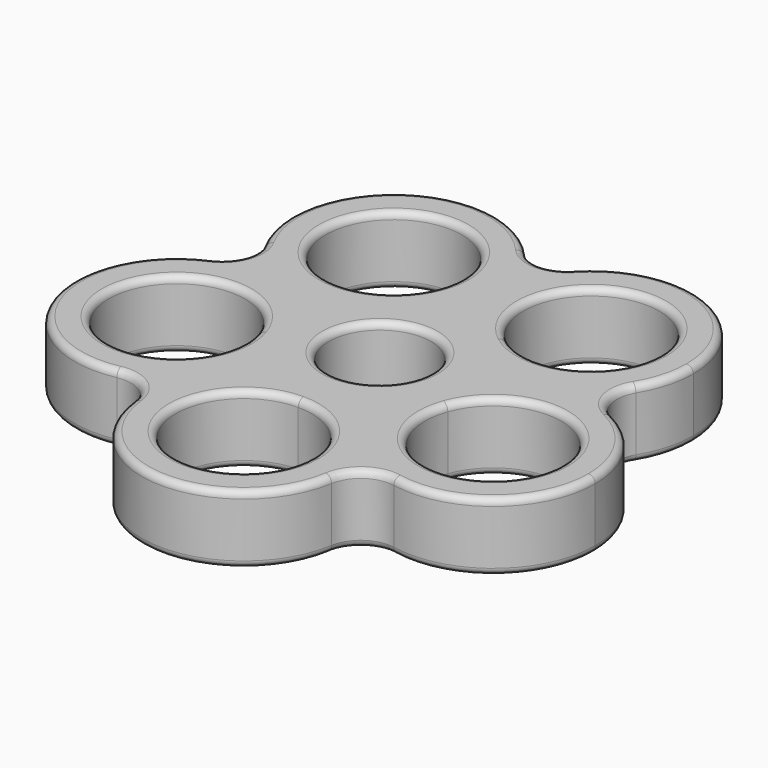
from build123d import *

# Parameters (mm, degrees)
F0_R     = 7.5
F1_DEPTH = 10
F2_R     = 5
F3_R     = 1


with BuildPart() as f1:
    # F0 (on Top) → F1 (new body)
    with BuildSketch(Plane.XY):
        with BuildLine():
            ThreePointArc((14.5820389752, 3.516267812), (14.8951432458, 1.7705105721), (15, 0))
            ThreePointArc((15, 0), (14.772116288, -2.6047227059), (14.0953892834, -5.1303022279))
            ThreePointArc((14.0953892834, -5.1303022279), (12.014317133, -8.9808787893), (8.9102765444, -12.0667713951))
            ThreePointArc((8.9102765444, -12.0667713951), (9.0551324249, -12.6208529894), (9.2210338453, -13.1690011062))
            ThreePointArc((9.2210338453, -13.1690011062), (12.2872806643, -16.3963534547), (14.2712816744, -20.3815024769))
            ThreePointArc((14.2712816744, -20.3815024769), (30.0757983487, -22.0285506909), (38.4923155196, -8.5505035831))
            ThreePointArc((38.4923155196, -8.5505035831), (33.4818604511, 2.6391788102), (21.7977832446, 6.3534744217))
            ThreePointArc((21.7977832446, 6.3534744217), (19.4164709357, 5.4330856915), (16.9135680003, 4.9298555024))
            ThreePointArc((16.9135680003, 4.9298555024), (15.7156180103, 4.2761474158), (14.5820389752, 3.516267812))
        make_face()
        with BuildLine():
            ThreePointArc((33.4923155196, -8.5505035831), (21.7558337839, -18.3985811205), (14.0953892834, -5.1303022279))
            ThreePointArc((14.0953892834, -5.1303022279), (25.2287972554, 1.2975739542), (33.4923155196, -8.5505035831))
        make_face(mode=Mode.SUBTRACT)
        with BuildLine():
            ThreePointArc((9.1314216423, 11.9002999454), (12.1779912249, 8.7576554925), (14.1876562524, 4.8693336365))
            ThreePointArc((14.1876562524, 4.8693336365), (15.5519901273, 4.8375292504), (16.9135680003, 4.9298555024))
            ThreePointArc((16.9135680003, 4.9298555024), (19.2948803092, 5.8502442326), (21.7977832446, 6.3534744217))
            ThreePointArc((21.7977832446, 6.3534744217), (27.9406946735, 11.8865450638), (30.2190357252, 19.8338335073))
            ThreePointArc((30.2190357252, 19.8338335073), (16.658483173, 34.7646067975), (0.4953035859, 22.6994419747))
            ThreePointArc((0.4953035859, 22.6994419747), (0.6192106424, 21.5921929027), (0.6605890912, 20.4788011072))
            ThreePointArc((0.6605890912, 20.4788011072), (0.5913623815, 19.0393536595), (0.3843212306, 17.6131926398))
            ThreePointArc((0.3843212306, 17.6131926398), (0.6475432042, 16.2741136154), (1.0313794728, 14.9644998708))
            ThreePointArc((1.0313794728, 14.9644998708), (5.3073498021, 14.029684176), (9.1314216423, 11.9002999454))
        make_face()
        with BuildLine():
            ThreePointArc((25.2190357252, 19.8338335073), (19.6419227445, 10.8651061497), (9.1314216423, 11.9002999454))
            ThreePointArc((9.1314216423, 11.9002999454), (10.7961487059, 28.8025608648), (25.2190357252, 19.8338335073))
        make_face(mode=Mode.SUBTRACT)
        with BuildLine():
            ThreePointArc((21.7977832446, 6.3534744217), (19.2948803092, 5.8502442326), (16.9135680003, 4.9298555024))
            ThreePointArc((16.9135680003, 4.9298555024), (19.4164709357, 5.4330856915), (21.7977832446, 6.3534744217))
        make_face()
        with BuildLine():
            ThreePointArc((9.2210338453, -13.1690011062), (8.7626847324, -12.8256270683), (8.2915619759, -12.5))
            ThreePointArc((8.2915619759, -12.5), (4.3301270098, -14.3614066191), (-1.91e-08, -15))
            ThreePointArc((-1.91e-08, -15), (-4.330127028, -14.3614066136), (-8.2915619759, -12.5))
            ThreePointArc((-8.2915619759, -12.5), (-9.3933220963, -13.3053217233), (-10.4173297888, -14.2074451555))
            ThreePointArc((-10.4173297888, -14.2074451555), (-11.7462547047, -16.3872897131), (-13.4255939799, -18.3101998321))
            ThreePointArc((-13.4255939799, -18.3101998321), (-3.4362836249, -39.6010943031), (15, -25))
            ThreePointArc((15, -25), (14.8167004612, -22.6621831889), (14.2712816744, -20.3815024769))
            ThreePointArc((14.2712816744, -20.3815024769), (11.2050348553, -17.1541501284), (9.2210338453, -13.1690011062))
        make_face()
        with BuildLine():
            ThreePointArc((10, -25), (-7.0710678051, -32.0710678186), (-1.91e-08, -15))
            ThreePointArc((-1.91e-08, -15), (7.0710678051, -17.9289321814), (10, -25))
        make_face(mode=Mode.SUBTRACT)
        with BuildLine():
            ThreePointArc((14.2712816744, -20.3815024769), (12.2872806643, -16.3963534547), (9.2210338453, -13.1690011062))
            ThreePointArc((9.2210338453, -13.1690011062), (11.2050348553, -17.1541501284), (14.2712816744, -20.3815024769))
        make_face()
        with BuildLine():
            ThreePointArc((-8.6036464699, 12.2872807171), (-4.6903319847, 14.2478344275), (-0.3776555115, 14.9952451235))
            ThreePointArc((-0.3776555115, 14.9952451235), (0.0629399793, 16.2868697031), (0.3843212306, 17.6131926398))
            ThreePointArc((0.3843212306, 17.6131926398), (0.222605319, 20.1610567828), (0.4953035859, 22.6994419747))
            ThreePointArc((0.4953035859, 22.6994419747), (-22.943057454, 32.7660817716), (-21.499901923, 7.2982332729))
            ThreePointArc((-21.499901923, 7.2982332729), (-19.0213317892, 6.6863069548), (-16.6824327544, 5.6629228467))
            ThreePointArc((-16.6824327544, 5.6629228467), (-15.3261780164, 5.5112932761), (-13.9617553973, 5.4835559837))
            ThreePointArc((-13.9617553973, 5.4835559837), (-11.7843967991, 9.2805168003), (-8.6036464699, 12.2872807171))
        make_face()
        with BuildLine():
            ThreePointArc((-4.3394109088, 20.4788011072), (-5.4693025558, 15.8613150157), (-8.6036464699, 12.2872807171))
            ThreePointArc((-8.6036464699, 12.2872807171), (-23.2095192618, 25.0962871988), (-4.3394109088, 20.4788011072))
        make_face(mode=Mode.SUBTRACT)
        with BuildLine():
            ThreePointArc((0.4953035859, 22.6994419747), (0.222605319, 20.1610567828), (0.3843212306, 17.6131926398))
            ThreePointArc((0.3843212306, 17.6131926398), (0.5913623815, 19.0393536595), (0.6605890912, 20.4788011072))
            ThreePointArc((0.6605890912, 20.4788011072), (0.6192106424, 21.5921929027), (0.4953035859, 22.6994419747))
        make_face()
        with BuildLine():
            ThreePointArc((-10.4173297888, -14.2074451555), (-9.8648844317, -12.9595579136), (-9.4281411113, -11.6666256984))
            ThreePointArc((-9.4281411113, -11.6666256984), (-12.3946226197, -8.448273795), (-14.3057542615, -4.5105869916))
            ThreePointArc((-14.3057542615, -4.5105869916), (-14.9988112338, -0.1888427212), (-14.4147826575, 4.1489807108))
            ThreePointArc((-14.4147826575, 4.1489807108), (-15.5141372937, 4.9575831006), (-16.6824327544, 5.6629228467))
            ThreePointArc((-16.6824327544, 5.6629228467), (-19.1610028883, 6.2748491648), (-21.499901923, 7.2982332729))
            ThreePointArc((-21.499901923, 7.2982332729), (-38.1486780299, -12.0282319802), (-13.4255939799, -18.3101998321))
            ThreePointArc((-13.4255939799, -18.3101998321), (-12.096669064, -16.1303552745), (-10.4173297888, -14.2074451555))
        make_face()
        with BuildLine():
            ThreePointArc((-13.8429237687, -7.5176449876), (-33.7265388733, -9.03887885), (-14.3057542615, -4.5105869916))
            ThreePointArc((-14.3057542615, -4.5105869916), (-13.9593086641, -5.9964111252), (-13.8429237687, -7.5176449876))
        make_face(mode=Mode.SUBTRACT)
        with BuildLine():
            ThreePointArc((-13.4255939799, -18.3101998321), (-11.7462547047, -16.3872897131), (-10.4173297888, -14.2074451555))
            ThreePointArc((-10.4173297888, -14.2074451555), (-12.096669064, -16.1303552745), (-13.4255939799, -18.3101998321))
        make_face()
        with BuildLine():
            ThreePointArc((-21.499901923, 7.2982332729), (-19.1610028883, 6.2748491648), (-16.6824327544, 5.6629228467))
            ThreePointArc((-16.6824327544, 5.6629228467), (-19.0213317892, 6.6863069548), (-21.499901923, 7.2982332729))
        make_face()
        with BuildLine():
            ThreePointArc((-13.9617553973, 5.4835559837), (-5.7357643635, 8.1915204429), (-0.3776555115, 14.9952451235))
            ThreePointArc((-0.3776555115, 14.9952451235), (-4.6903319847, 14.2478344275), (-8.6036464699, 12.2872807171))
            ThreePointArc((-8.6036464699, 12.2872807171), (-11.7843967991, 9.2805168003), (-13.9617553973, 5.4835559837))
        make_face()
        with BuildLine():
            ThreePointArc((-14.3057542615, -4.5105869916), (-12.3946226197, -8.448273795), (-9.4281411113, -11.6666256984))
            ThreePointArc((-9.4281411113, -11.6666256984), (-8.9899486482, -9.6126700636), (-8.8429237687, -7.5176449876))
            ThreePointArc((-8.8429237687, -7.5176449876), (-10.3073758177, -1.0532083017), (-14.4147826575, 4.1489807108))
            ThreePointArc((-14.4147826575, 4.1489807108), (-14.9988112338, -0.1888427212), (-14.3057542615, -4.5105869916))
        make_face()
        with BuildLine():
            ThreePointArc((8.9102765444, -12.0667713951), (9.3969262079, -3.4202014333), (14.5820389752, 3.516267812))
            ThreePointArc((14.5820389752, 3.516267812), (14.4007478158, 4.1974352105), (14.1876562524, 4.8693336365))
            ThreePointArc((14.1876562524, 4.8693336365), (6.0876142901, 7.9335334029), (1.0313794728, 14.9644998708))
            ThreePointArc((1.0313794728, 14.9644998708), (0.3272232755, 14.9964304062), (-0.3776555115, 14.9952451235))
            ThreePointArc((-0.3776555115, 14.9952451235), (-5.7357643635, 8.1915204429), (-13.9617553973, 5.4835559837))
            ThreePointArc((-13.9617553973, 5.4835559837), (-14.2039519424, 4.8215919795), (-14.4147826575, 4.1489807108))
            ThreePointArc((-14.4147826575, 4.1489807108), (-10.3073758177, -1.0532083017), (-8.8429237687, -7.5176449876))
            ThreePointArc((-8.8429237687, -7.5176449876), (-8.9899486482, -9.6126700636), (-9.4281411113, -11.6666256984))
            ThreePointArc((-9.4281411113, -11.6666256984), (-8.8696447255, -12.096669064), (-8.2915619759, -12.5))
            ThreePointArc((-8.2915619759, -12.5), (0, -10), (8.2915619759, -12.5))
            ThreePointArc((8.2915619759, -12.5), (8.6036465453, -12.2872806643), (8.9102765444, -12.0667713951))
        make_face()
        Circle(F0_R, mode=Mode.SUBTRACT)
        with BuildLine():
            ThreePointArc((-1.91e-08, -15), (4.3301270098, -14.3614066191), (8.2915619759, -12.5))
            ThreePointArc((8.2915619759, -12.5), (0, -10), (-8.2915619759, -12.5))
            ThreePointArc((-8.2915619759, -12.5), (-4.330127028, -14.3614066136), (-1.91e-08, -15))
        make_face()
        with BuildLine():
            ThreePointArc((14.0953892834, -5.1303022279), (14.772116288, -2.6047227059), (15, 0))
            ThreePointArc((15, 0), (14.8951432458, 1.7705105721), (14.5820389752, 3.516267812))
            ThreePointArc((14.5820389752, 3.516267812), (9.3969262079, -3.4202014333), (8.9102765444, -12.0667713951))
            ThreePointArc((8.9102765444, -12.0667713951), (12.014317133, -8.9808787893), (14.0953892834, -5.1303022279))
        make_face()
        with BuildLine():
            ThreePointArc((1.0313794728, 14.9644998708), (6.0876142901, 7.9335334029), (14.1876562524, 4.8693336365))
            ThreePointArc((14.1876562524, 4.8693336365), (12.1779912249, 8.7576554925), (9.1314216423, 11.9002999454))
            ThreePointArc((9.1314216423, 11.9002999454), (5.3073498021, 14.029684176), (1.0313794728, 14.9644998708))
        make_face()
        with BuildLine():
            ThreePointArc((14.1876562524, 4.8693336365), (14.4007478158, 4.1974352105), (14.5820389752, 3.516267812))
            ThreePointArc((14.5820389752, 3.516267812), (15.7156180103, 4.2761474158), (16.9135680003, 4.9298555024))
            ThreePointArc((16.9135680003, 4.9298555024), (15.5519901273, 4.8375292504), (14.1876562524, 4.8693336365))
        make_face()
        with BuildLine():
            ThreePointArc((-0.3776555115, 14.9952451235), (0.3272232755, 14.9964304062), (1.0313794728, 14.9644998708))
            ThreePointArc((1.0313794728, 14.9644998708), (0.6475432042, 16.2741136154), (0.3843212306, 17.6131926398))
            ThreePointArc((0.3843212306, 17.6131926398), (0.0629399793, 16.2868697031), (-0.3776555115, 14.9952451235))
        make_face()
        with BuildLine():
            ThreePointArc((-14.4147826575, 4.1489807108), (-14.2039519424, 4.8215919795), (-13.9617553973, 5.4835559837))
            ThreePointArc((-13.9617553973, 5.4835559837), (-15.3261780164, 5.5112932761), (-16.6824327544, 5.6629228467))
            ThreePointArc((-16.6824327544, 5.6629228467), (-15.5141372937, 4.9575831006), (-14.4147826575, 4.1489807108))
        make_face()
        with BuildLine():
            ThreePointArc((-10.4173297888, -14.2074451555), (-9.3933220963, -13.3053217233), (-8.2915619759, -12.5))
            ThreePointArc((-8.2915619759, -12.5), (-8.8696447255, -12.096669064), (-9.4281411113, -11.6666256984))
            ThreePointArc((-9.4281411113, -11.6666256984), (-9.8648844317, -12.9595579136), (-10.4173297888, -14.2074451555))
        make_face()
        with BuildLine():
            ThreePointArc((9.2210338453, -13.1690011062), (9.0551324249, -12.6208529894), (8.9102765444, -12.0667713951))
            ThreePointArc((8.9102765444, -12.0667713951), (8.6036465453, -12.2872806643), (8.2915619759, -12.5))
            ThreePointArc((8.2915619759, -12.5), (8.7626847324, -12.8256270683), (9.2210338453, -13.1690011062))
        make_face()
    extrude(amount=F1_DEPTH)

    # F2
    f2_edges = [f1.edges().sort_by_distance(p)[0] for p in [
        (14.271282, -20.381502, 5),
        (21.797783, 6.353474, 5),
        (0.495304, 22.699442, 5),
        (-21.499902, 7.298233, 5),
        (-13.425594, -18.3102, 5),
    ]]
    fillet(f2_edges, radius=F2_R)

    # F3
    f3_edges = [f1.edges().sort_by_distance(p)[0] for p in [
        (-27.112708, 9.203524, 0),
        (-33.380093, -10.524703, 0),
        (-16.930506, -23.090296, 10),
        (-16.930506, -23.090296, 0),
        (-7.5, 0, 0),
        (0, -35, 0),
        (0, -35, 10),
        (16.875118, -24.100166, 0),
        (-20.075175, 28.670321, 0),
        (-20.075175, 28.670321, 10),
        (21.30665, 27.767367, 0),
        (21.30665, 27.767367, 10),
        (32.889242, -11.970705, 0),
        (32.889242, -11.970705, 10),
        (0.624609, 28.625402, 0),
        (37.721444, -13.297282, 10),
        (27.488355, 8.012125, 0),
        (-0.406136, -39.994501, 0),
        (-0.406136, -39.994501, 10),
        (-38.148678, -12.028232, 0),
        (-38.148678, -12.028232, 10),
        (-22.943057, 32.766082, 0),
        (-22.943057, 32.766082, 10),
        (24.350457, 31.734134, 0),
        (37.721444, -13.297282, 0),
        (-33.380093, -10.524703, 10),
        (-20.876021, -22.221301, 5),
        (-14.91529, -26.591889, 5),
        (20.680329, -23.284571, 5),
        (14.80725, -27.396945, 5),
        (-7.5, 0, 10),
        (16.875118, -24.100166, 10),
        (4.355021, 30.176618, 5),
        (-3.034591, 30.33786, 5),
        (0.624609, 28.625402, 10),
        (-27.112708, 9.203524, 10),
        (-29.84625, 6.22863, 5),
        (-27.470372, 13.227741, 5),
        (27.488355, 8.012125, 10),
        (24.350457, 31.734134, 10),
        (28.021212, 12.016911, 5),
        (30.089532, 4.920827, 5),
    ]]
    fillet(f3_edges, radius=F3_R)


solid = f1.part
